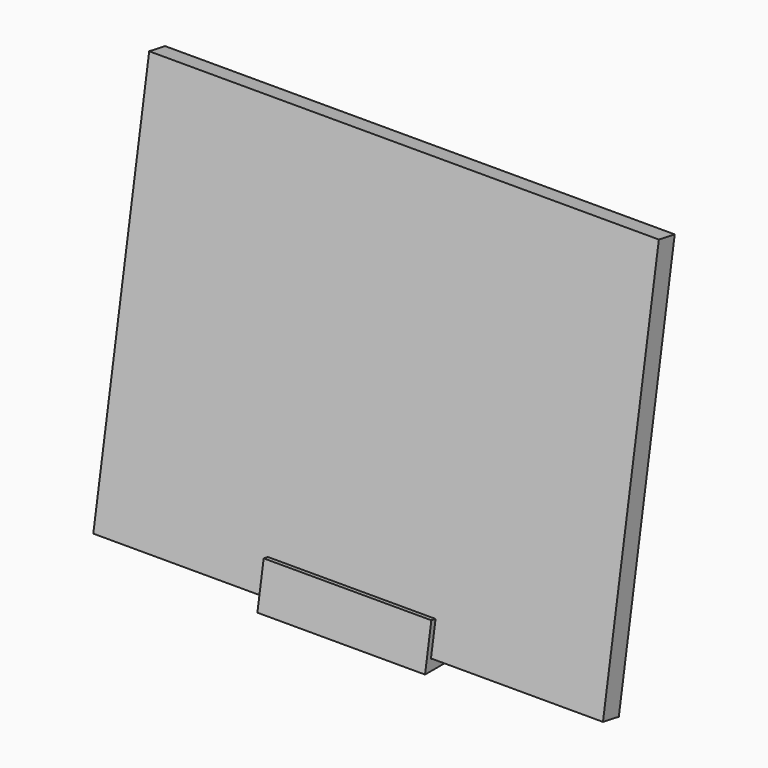
from build123d import *

# Parameters (mm, degrees)
F1_DEPTH = 190
F3_DEPTH = 62.5


with BuildPart() as f1:
    # F0 (on Right) → F1 (new body, symmetric)
    with BuildSketch(Plane.YZ):
        Polygon((52.0944533001, 298.0470485687), (0, 2.604722665), (14.7721162952, 0), (66.8665695953, 295.4423259037), align=None)
    extrude(amount=F1_DEPTH, both=True)


with BuildPart() as f3:
    # F2 (on Right) → F3 (new body, symmetric)
    with BuildSketch(Plane.YZ):
        Polygon((-0.984807753, 2.7783708427), (3.3563966887, 27.398564668), (-0.5828343234, 28.0931573786), (-6.4486697049, -5.1736481777), (66.8665695953, -5.1736481777), (66.8665695953, 16.2000076351), (20.0981284899, 24.4465456476), (15.7569240482, -0.1736481777), align=None)
    extrude(amount=F3_DEPTH, both=True)


solid = Compound([f1.part, f3.part])
